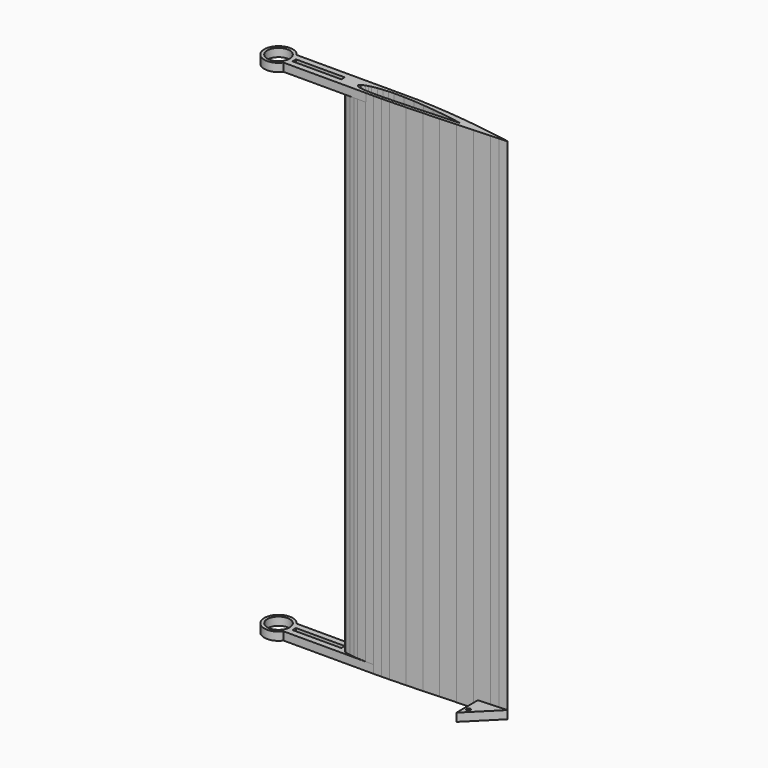
from build123d import *

# Parameters (mm, degrees)
PAD_DEPTH       = 125
PAD001_DEPTH    = 2
PAD002_DEPTH    = 2
SKETCH002_R     = 2.75
POCKET_DEPTH    = 125.001
POCKET001_DEPTH = 125.001
SKETCH004_W     = 12
SKETCH004_H     = 1.0604
POCKET002_DEPTH = 125.001
PAD003_DEPTH    = 2
SKETCH006_R     = 0.5
POCKET003_DEPTH = 125.001


with BuildPart() as part:
    # DWire → Pad (new body)
    with BuildSketch(Plane.XY):
        Polygon((38.0164, 0.396), (40, 0.042), (40, -0.042), (37.9836, -0.1408), (35.9732, -0.2376), (31.9612, -0.4296), (27.9592, -0.6204), (23.966, -0.8096), (19.9804, -0.9872), (16, -1.1348), (12.05, -1.25), (10.0744, -1.292), (8.0956, -1.3104), (6.1112, -1.2908), (4.116, -1.2064), (3.1132, -1.1236), (2.1032, -0.9928), (1.0812, -0.7708), (0.5608, -0.5792), (0, 0), (0.4392, 0.6776), (0.9188, 0.9644), (1.8968, 1.368), (2.8868, 1.6676), (3.884, 1.9064), (5.8888, 2.266), (7.9044, 2.5104), (9.9256, 2.6672), (11.95, 2.75), (16, 2.7348), (20.0196, 2.5424), (24.034, 2.232), (28.0408, 1.8204), (32.0388, 1.3184), (36.0268, 0.7264), align=None)
    extrude(amount=PAD_DEPTH)

    # Sketch → Pad001 (new body)
    with BuildSketch(Plane.XY.offset(125)):
        with BuildLine():
            Line((11.95, 2.75), (-14, 2.75))
            ThreePointArc((-14, 2.75), (-20.357544, 0.729), (-14, -1.292))
            Line((10.0744, -1.292), (-14, -1.292))
            Line((11.95, 2.75), (10.0744, -1.292))
        make_face()
    extrude(amount=-PAD001_DEPTH)

    # Sketch001 → Pad002 (new body)
    with BuildSketch(Plane(origin=(0, 0, 0), x_dir=(1, 0, 0), z_dir=(0, 0, -1))):
        with BuildLine():
            Line((8.0956, 1.3104), (11.95, -2.75))
            Line((11.95, -2.75), (-14, -2.75))
            ThreePointArc((-14, 1.3104), (-20.351015, -0.7198), (-14, -2.75))
            Line((8.0956, 1.3104), (-14, 1.3104))
        make_face()
    extrude(amount=-PAD002_DEPTH)

    # Sketch002 → Pocket (cut, through all)
    with BuildSketch(Plane(origin=(0, 0, 0), x_dir=(1, 0, 0), z_dir=(0, 0, -1))):
        with Locations((-16.851015, -0.7198)):
            Circle(SKETCH002_R)
    extrude(amount=-POCKET_DEPTH, mode=Mode.SUBTRACT)

    # Sketch003 → Pocket001 (cut, through all)
    with BuildSketch(Plane.XY.offset(125)):
        Polygon((28, 0.27625), (26.76025, 0.4975), (25.51675, 0.704), (23.02425, 1.074), (20.5255, 1.38775), (18.02125, 1.645), (15.51225, 1.839), (13, 1.95925), (10.46875, 1.96875), (9.2035, 1.917), (7.94025, 1.819), (6.6805, 1.66625), (5.4275, 1.4415), (4.80425, 1.29225), (4.1855, 1.105), (3.57425, 0.85275), (3.2745, 0.6735), (3, 0.25), (3.3505, -0.112), (3.67575, -0.23175), (4.3145, -0.3705), (4.94575, -0.45225), (5.5725, -0.504), (6.8195, -0.55675), (8.05975, -0.569), (9.2965, -0.5575), (10.53125, -0.53125), (13, -0.45925), (15.48775, -0.367), (17.97875, -0.256), (20.4745, -0.13775), (22.97575, -0.0185), (25.48325, 0.1015), (26.73975, 0.162), (28, 0.22375), align=None)
    extrude(amount=-POCKET001_DEPTH, mode=Mode.SUBTRACT)

    # Sketch004 → Pocket002 (cut, through all)
    with BuildSketch(Plane(origin=(0, 0, 0), x_dir=(1, 0, 0), z_dir=(0, 0, -1))):
        with Locations((-7, -0.7198)):
            Rectangle(SKETCH004_W, SKETCH004_H)
    extrude(amount=-POCKET002_DEPTH, mode=Mode.SUBTRACT)

    # Sketch005 → Pad003 (new body)
    with BuildSketch(Plane(origin=(0, 0, 0), x_dir=(1, 0, 0), z_dir=(0, 0, -1))):
        Polygon((33, 0), (40, 0), (33, 7), align=None)
    extrude(amount=-PAD003_DEPTH)

    # Sketch006 → Pocket003 (cut, through all)
    with BuildSketch(Plane(origin=(0, 0, 0), x_dir=(1, 0, 0), z_dir=(0, 0, -1))):
        with Locations((34, 4.5)):
            Circle(SKETCH006_R)
    extrude(amount=-POCKET003_DEPTH, mode=Mode.SUBTRACT)


solid = part.part
